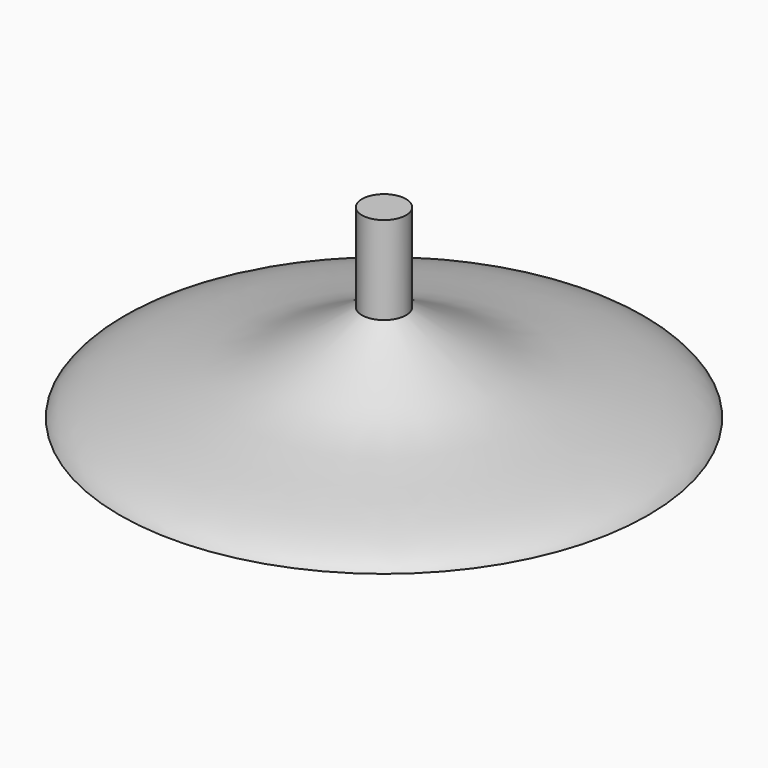
from build123d import *

# Parameters (mm, degrees)
F2_DEPTH = 50


with BuildPart() as f1:
    # F0 (on Front) → F1 (revolve)
    with BuildSketch(Plane.XZ):
        with BuildLine():
            Line((0, 55.3005859256), (0, 0))
            Line((0, 0), (150, 0))
            add(Edge.make_bspline(
                [(12.5, 55.3005859256), (23.6650545392, 47.9043371468), (54.7594454855, 31.1697758389), (77.9953447318, 20.2416218087), (143.7358009159, 11.1406485801), (150, 0)],
                knots=[0, 0, 0, 0, 0.3234767326, 0.5997533725, 1, 1, 1, 1], degree=3))
            Line((12.5, 55.3005859256), (0, 55.3005859256))
        make_face()
    revolve(axis=Axis((0, 0, 27.6502929628), (0, 0, -1)))

    # F2 (add): a face of the model
    f2_faces = [f1.faces().sort_by_distance(p)[0] for p in [
        (0, 0, 55.3005859256),
    ]]
    extrude(f2_faces, amount=F2_DEPTH)


solid = f1.part
